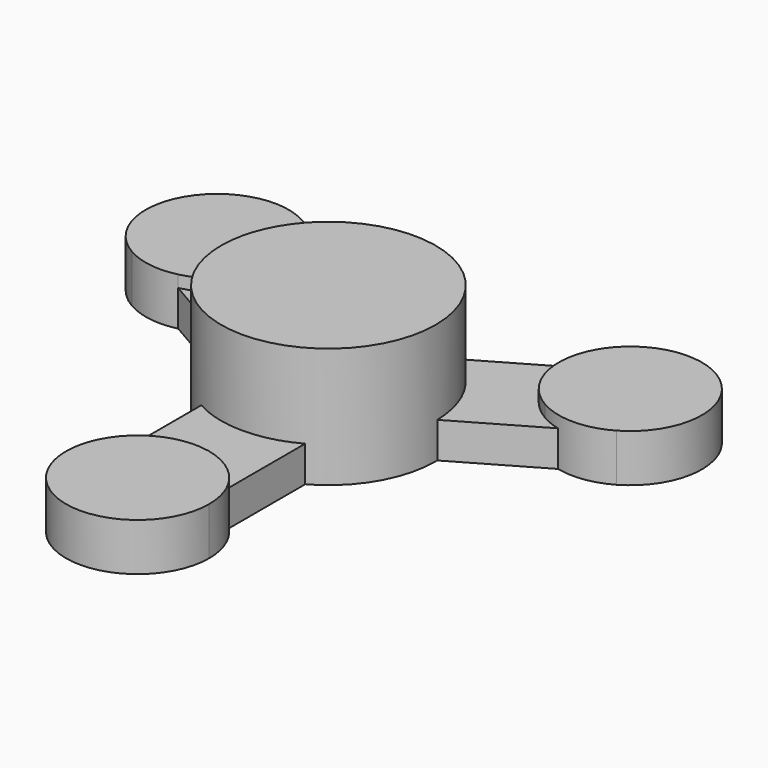
from build123d import *

# Parameters (mm, degrees)
F1_DEPTH = 12.7
F2_DEPTH = 19.05
F3_DEPTH = 9.525
F4_COUNT = 3
F5_DEPTH = 12.954


with BuildPart() as f1:
    # F0 (on Top) → F1 (new body)
    with BuildSketch(Plane.XY):
        with BuildLine():
            Line((-54.9926131403, 31.75), (-45.4676131403, 48.2477839421))
            ThreePointArc((-45.4676131403, 48.2477839421), (-71.4903970824, 41.275), (-64.5176131403, 15.2522160579))
            Line((-64.5176131403, 15.2522160579), (-54.9926131403, 31.75))
        make_face()
        with BuildLine():
            ThreePointArc((-35.9426131403, 31.75), (-36.1413668012, 34.4946332106), (-36.7334804853, 37.1819954607))
            ThreePointArc((-36.7334804853, 37.1819954607), (-40.0392715229, 43.552545254), (-45.4676131403, 48.2477839421))
            Line((-45.4676131403, 48.2477839421), (-54.9926131403, 31.75))
            Line((-54.9926131403, 31.75), (-38.4948291982, 22.225))
            ThreePointArc((-38.4948291982, 22.225), (-36.5917261495, 26.8194971908), (-35.9426131403, 31.75))
        make_face()
        with BuildLine():
            ThreePointArc((-64.5176131403, 15.2522160579), (-57.7372463509, 12.8987536608), (-50.567292875, 13.2211295393))
            ThreePointArc((-50.567292875, 13.2211295393), (-43.6035177751, 16.4794071247), (-38.4948291982, 22.225))
            Line((-38.4948291982, 22.225), (-54.9926131403, 31.75))
            Line((-54.9926131403, 31.75), (-64.5176131403, 15.2522160579))
        make_face()
    extrude(amount=F1_DEPTH)


with BuildPart() as f2:
    # F0 (on Top) → F2 (new body)
    with BuildSketch(Plane.XY):
        with BuildLine():
            ThreePointArc((-28.5702476189, 0.5211295393), (-0.2605756041, -28.57381188), (28.575, 0))
            ThreePointArc((28.575, 0), (14.0612408472, 24.8759347731), (-14.7364352291, 24.4819954607))
            ThreePointArc((-14.7364352291, 24.4819954607), (-20.3889909214, 20.020481368), (-24.7466759131, 14.2875))
            ThreePointArc((-24.7466759131, 14.2875), (-27.5327409214, 7.6471434114), (-28.5702476189, 0.5211295393))
        make_face()
    extrude(amount=F2_DEPTH)

    # F5 (add): a face of the model
    f5_faces = [f2.faces().sort_by_distance(p)[0] for p in [
        (0, 0, 19.05),
    ]]
    extrude(f5_faces, amount=F5_DEPTH)


with BuildPart() as f3:
    # F0 (on Top) → F3 (new body)
    with BuildSketch(Plane.XY):
        with BuildLine():
            ThreePointArc((-24.7466759131, 14.2875), (-20.3889909214, 20.020481368), (-14.7364352291, 24.4819954607))
            Line((-14.7364352291, 24.4819954607), (-36.7334804853, 37.1819954607))
            ThreePointArc((-36.7334804853, 37.1819954607), (-36.1413668012, 34.4946332106), (-35.9426131403, 31.75))
            ThreePointArc((-35.9426131403, 31.75), (-36.5917261495, 26.8194971908), (-38.4948291982, 22.225))
            Line((-38.4948291982, 22.225), (-24.7466759131, 14.2875))
        make_face()
        with BuildLine():
            Line((-50.567292875, 13.2211295393), (-28.5702476189, 0.5211295393))
            ThreePointArc((-28.5702476189, 0.5211295393), (-27.5327409214, 7.6471434114), (-24.7466759131, 14.2875))
            Line((-24.7466759131, 14.2875), (-38.4948291982, 22.225))
            ThreePointArc((-38.4948291982, 22.225), (-43.6035177751, 16.4794071247), (-50.567292875, 13.2211295393))
        make_face()
    extrude(amount=F3_DEPTH)


with BuildPart() as f4_1:
    # F4: instance of F1
    add(f1.part.rotate(Axis((0, 0, 19.05), (0, 0, -1)), 1 * 360 / F4_COUNT))


with BuildPart() as f4_2:
    # F4: instance of F1
    add(f1.part.rotate(Axis((0, 0, 19.05), (0, 0, -1)), 2 * 360 / F4_COUNT))


with BuildPart() as f4_3:
    # F4: instance of F3
    add(f3.part.rotate(Axis((0, 0, 19.05), (0, 0, -1)), 1 * 360 / F4_COUNT))


with BuildPart() as f4_4:
    # F4: instance of F3
    add(f3.part.rotate(Axis((0, 0, 19.05), (0, 0, -1)), 2 * 360 / F4_COUNT))


solid = Compound([f1.part, f2.part, f3.part, f4_1.part, f4_2.part, f4_3.part, f4_4.part])
